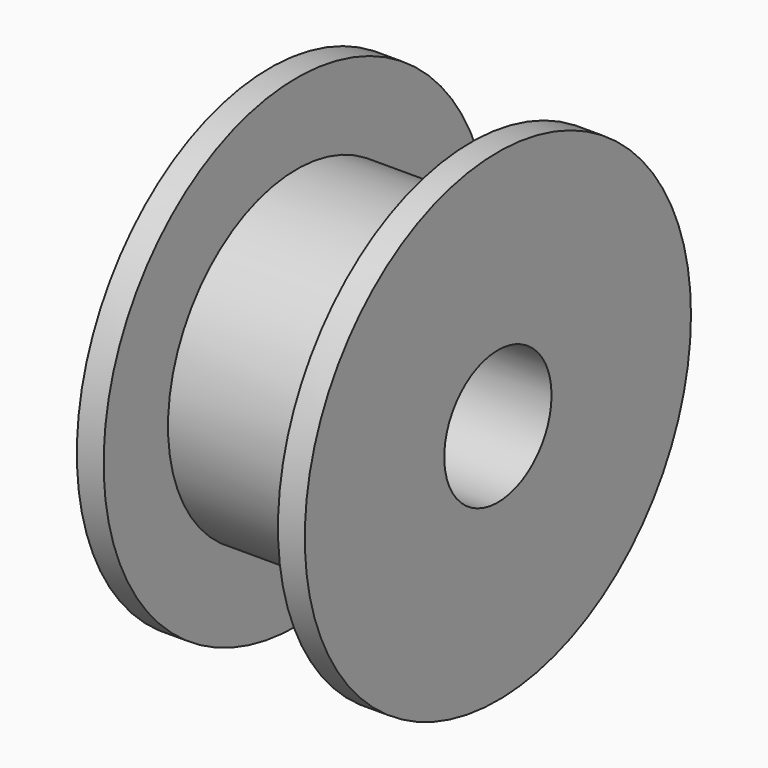
from build123d import *

# Parameters (mm, degrees)
CYLINDER286_R          = 2.5
CYLINDER286_DEPTH      = 14.5
CYLINDER289_R          = 6
CYLINDER289_DEPTH      = 6.5
CYLINDER288_R          = 9
CYLINDER288_DEPTH      = 1
CYLINDER287_R          = 9
CYLINDER287_DEPTH      = 1
CUT203_ROLL_ANGLE      = 90
CUT203_PLACEMENT_ANGLE = 90


with BuildPart() as cylinder286:
    # Cylinder286 → Cylinder286 (new body)
    with BuildSketch(Plane.XY.offset(-2.4)):
        Circle(CYLINDER286_R)
    extrude(amount=CYLINDER286_DEPTH)


with BuildPart() as cylinder289:
    # Cylinder289 → Cylinder289 (new body)
    with BuildSketch(Plane.XY.offset(1)):
        Circle(CYLINDER289_R)
    extrude(amount=CYLINDER289_DEPTH)


with BuildPart() as cylinder288:
    # Cylinder288 → Cylinder288 (new body)
    with BuildSketch(Plane.XY.offset(7.5)):
        Circle(CYLINDER288_R)
    extrude(amount=CYLINDER288_DEPTH)


with BuildPart() as cut203:
    # Cylinder287 → Cylinder287 (new body)
    with BuildSketch(Plane.XY):
        Circle(CYLINDER287_R)
    extrude(amount=CYLINDER287_DEPTH)

    # Fusion109: union Cylinder289, Cylinder288
    add(cylinder289.part)
    add(cylinder288.part)

    # Cut203: cut Cylinder286
    add(cylinder286.part, mode=Mode.SUBTRACT)


with BuildPart() as cut203_1:
    # Cut203 roll: moved
    add(cut203.part.rotate(Axis((0, 0, 0), (1, 0, 0)), CUT203_ROLL_ANGLE))


with BuildPart() as cut203_2:
    # Cut203 placement: moved
    add(cut203_1.part.moved(Location((73.8, 182.1, 51.18))).rotate(Axis((73.8, 182.1, 51.18), (0, 0, 1)), CUT203_PLACEMENT_ANGLE))


solid = cut203_2.part
